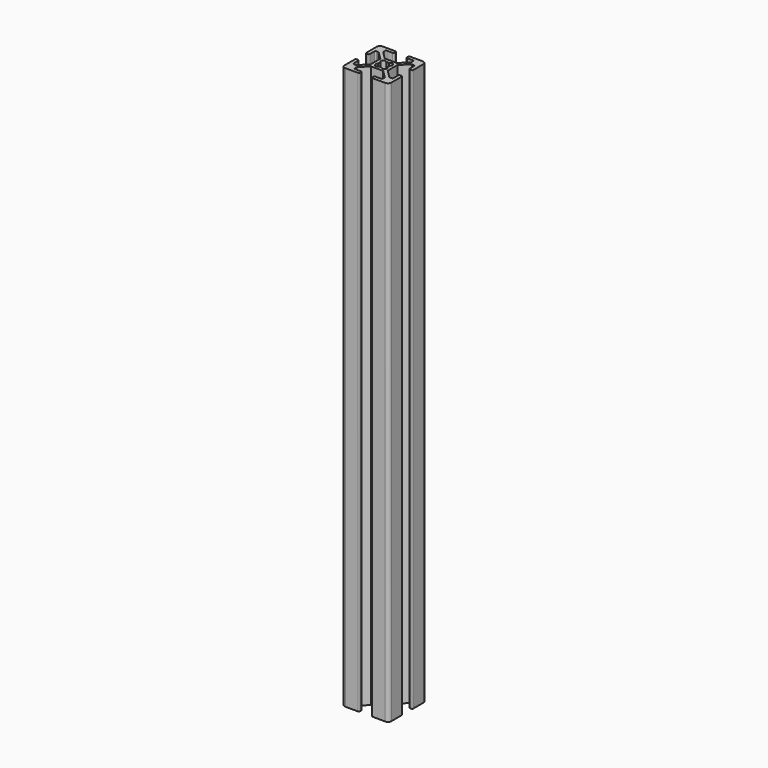
from build123d import *

# Parameters (mm, degrees)
F1_DEPTH = 240
F2_R     = 1.5
F3_R     = 0.5


with BuildPart() as f1:
    # F0 (on Top) → F1 (new body)
    with BuildSketch(Plane.XY):
        Polygon((-2.6, 8.5), (-2.6, 10), (-10, 10), (-10, 2.6), (-8.5, 2.6), (-8.5, 6), (-8.5, 7.4393398282), (-8.5, 8.5), (-7.4393398282, 8.5), (-6, 8.5), align=None)
        Polygon((-8.5, 7.4393398282), (-8.5, 6), (-7.0606601718, 6), align=None)
        Polygon((-6, 7.0606601718), (-6, 8.5), (-7.4393398282, 8.5), align=None)
        Polygon((-6, 7.0606601718), (-7.4393398282, 8.5), (-8.5, 8.5), (-8.5, 7.4393398282), (-7.0606601718, 6), (-3.65, 2.5893398282), (-3.65, 3.65), (-2.5893398282, 3.65), align=None)
        Polygon((10, 2.6), (10, 10), (2.6, 10), (2.6, 8.5), (6, 8.5), (7.4393398282, 8.5), (8.5, 8.5), (8.5, 7.4393398282), (8.5, 6), (8.5, 2.6), align=None)
        Polygon((7.4393398282, 8.5), (6, 8.5), (6, 7.0606601718), align=None)
        Polygon((8.5, 8.5), (7.4393398282, 8.5), (6, 7.0606601718), (2.5893398282, 3.65), (3.65, 3.65), (3.65, 2.5893398282), (7.0606601718, 6), (8.5, 7.4393398282), align=None)
        Polygon((7.0606601718, 6), (8.5, 6), (8.5, 7.4393398282), align=None)
        Polygon((6, -7.0606601718), (6, -8.5), (7.4393398282, -8.5), align=None)
        Polygon((8.5, -8.5), (8.5, -7.4393398282), (7.0606601718, -6), (3.65, -2.5893398282), (3.65, -3.65), (2.5893398282, -3.65), (6, -7.0606601718), (7.4393398282, -8.5), align=None)
        Polygon((8.5, -7.4393398282), (8.5, -6), (7.0606601718, -6), align=None)
        Polygon((10, -10), (10, -2.6), (8.5, -2.6), (8.5, -6), (8.5, -7.4393398282), (8.5, -8.5), (7.4393398282, -8.5), (6, -8.5), (2.6, -8.5), (2.6, -10), align=None)
        Polygon((-8.5, -2.6), (-10, -2.6), (-10, -10), (-2.6, -10), (-2.6, -8.5), (-6, -8.5), (-7.4393398282, -8.5), (-8.5, -8.5), (-8.5, -7.4393398282), (-8.5, -6), align=None)
        Polygon((-7.4393398282, -8.5), (-6, -8.5), (-6, -7.0606601718), align=None)
        Polygon((-7.0606601718, -6), (-8.5, -6), (-8.5, -7.4393398282), align=None)
        Polygon((-7.0606601718, -6), (-8.5, -7.4393398282), (-8.5, -8.5), (-7.4393398282, -8.5), (-6, -7.0606601718), (-2.5893398282, -3.65), (-3.65, -3.65), (-3.65, -2.5893398282), align=None)
        with BuildLine():
            Line((-2.4829614997, -1.4223013279), (-3.65, -2.5893398282))
            Line((-3.65, -2.5893398282), (-3.65, -3.65))
            Line((-3.65, -3.65), (-2.5893398282, -3.65))
            Line((-2.5893398282, -3.65), (-1.4223013279, -2.4829614997))
            ThreePointArc((-1.4223013279, -2.4829614997), (-2.1920310217, -2.1920310217), (-2.4829614997, -1.4223013279))
        make_face()
        with BuildLine():
            Line((-2.5893398282, -3.65), (2.5893398282, -3.65))
            Line((2.5893398282, -3.65), (1.4223013279, -2.4829614997))
            ThreePointArc((1.4223013279, -2.4829614997), (0.9671620585, -2.3404488298), (0.6297938115, -2.0033371546))
            ThreePointArc((0.6297938115, -2.0033371546), (0, -2.1), (-0.6297938115, -2.0033371546))
            ThreePointArc((-0.6297938115, -2.0033371546), (-0.9671620585, -2.3404488298), (-1.4223013279, -2.4829614997))
            Line((-1.4223013279, -2.4829614997), (-2.5893398282, -3.65))
        make_face()
        with BuildLine():
            Line((3.65, -3.65), (3.65, -2.5893398282))
            Line((3.65, -2.5893398282), (2.4829614997, -1.4223013279))
            ThreePointArc((2.4829614997, -1.4223013279), (2.4844334349, -1.4535974088), (2.4849242405, -1.4849242405))
            ThreePointArc((2.4849242405, -1.4849242405), (2.1695325546, -2.2138353848), (1.4223013279, -2.4829614997))
            Line((1.4223013279, -2.4829614997), (2.5893398282, -3.65))
            Line((2.5893398282, -3.65), (3.65, -3.65))
        make_face()
        with BuildLine():
            Line((3.65, -2.5893398282), (3.65, 2.5893398282))
            Line((3.65, 2.5893398282), (2.4829614997, 1.4223013279))
            ThreePointArc((2.4829614997, 1.4223013279), (2.3404488298, 0.9671620585), (2.0033371546, 0.6297938115))
            ThreePointArc((2.0033371546, 0.6297938115), (2.075693622, 0.3185843494), (2.1, 0))
            ThreePointArc((2.1, 0), (2.075693622, -0.3185843494), (2.0033371546, -0.6297938115))
            ThreePointArc((2.0033371546, -0.6297938115), (2.3404488298, -0.9671620585), (2.4829614997, -1.4223013279))
            Line((2.4829614997, -1.4223013279), (3.65, -2.5893398282))
        make_face()
        with BuildLine():
            Line((3.65, 3.65), (2.5893398282, 3.65))
            Line((2.5893398282, 3.65), (1.4223013279, 2.4829614997))
            ThreePointArc((1.4223013279, 2.4829614997), (2.1695325546, 2.2138353848), (2.4849242405, 1.4849242405))
            ThreePointArc((2.4849242405, 1.4849242405), (2.4844334349, 1.4535974088), (2.4829614997, 1.4223013279))
            Line((2.4829614997, 1.4223013279), (3.65, 2.5893398282))
            Line((3.65, 2.5893398282), (3.65, 3.65))
        make_face()
        with BuildLine():
            Line((1.4223013279, 2.4829614997), (2.5893398282, 3.65))
            Line((2.5893398282, 3.65), (-2.5893398282, 3.65))
            Line((-2.5893398282, 3.65), (-1.4223013279, 2.4829614997))
            ThreePointArc((-1.4223013279, 2.4829614997), (-0.9671620585, 2.3404488298), (-0.6297938115, 2.0033371546))
            ThreePointArc((-0.6297938115, 2.0033371546), (0, 2.1), (0.6297938115, 2.0033371546))
            ThreePointArc((0.6297938115, 2.0033371546), (0.9671620585, 2.3404488298), (1.4223013279, 2.4829614997))
        make_face()
        with BuildLine():
            Line((-1.4223013279, 2.4829614997), (-2.5893398282, 3.65))
            Line((-2.5893398282, 3.65), (-3.65, 3.65))
            Line((-3.65, 3.65), (-3.65, 2.5893398282))
            Line((-3.65, 2.5893398282), (-2.4829614997, 1.4223013279))
            ThreePointArc((-2.4829614997, 1.4223013279), (-2.1920310217, 2.1920310217), (-1.4223013279, 2.4829614997))
        make_face()
        with BuildLine():
            Line((-2.4829614997, 1.4223013279), (-3.65, 2.5893398282))
            Line((-3.65, 2.5893398282), (-3.65, -2.5893398282))
            Line((-3.65, -2.5893398282), (-2.4829614997, -1.4223013279))
            ThreePointArc((-2.4829614997, -1.4223013279), (-2.3404488298, -0.9671620585), (-2.0033371546, -0.6297938115))
            ThreePointArc((-2.0033371546, -0.6297938115), (-2.1, 0), (-2.0033371546, 0.6297938115))
            ThreePointArc((-2.0033371546, 0.6297938115), (-2.3404488298, 0.9671620585), (-2.4829614997, 1.4223013279))
        make_face()
    extrude(amount=-F1_DEPTH)

    # F2
    f2_edges = [f1.edges().sort_by_distance(p)[0] for p in [
        (-10, -10, -120),
        (-10, 10, -120),
        (10, -10, -120),
        (10, 10, -120),
    ]]
    fillet(f2_edges, radius=F2_R)

    # F3
    f3_edges = [f1.edges().sort_by_distance(p)[0] for p in [
        (-6, -8.5, -120),
        (-8.5, -6, -120),
        (-8.5, 6, -120),
        (-6, 8.5, -120),
        (6, -8.5, -120),
        (8.5, -6, -120),
        (8.5, 6, -120),
        (6, 8.5, -120),
        (-2.6, 10, -120),
        (-2.6, 8.5, -120),
        (2.6, 10, -120),
        (-8.5, 2.6, -120),
        (-8.5, -2.6, -120),
        (-10, -2.6, -120),
        (-2.6, -8.5, -120),
        (-2.6, -10, -120),
        (2.6, -8.5, -120),
        (8.5, -2.6, -120),
        (10, -2.6, -120),
        (10, 2.6, -120),
        (8.5, 2.6, -120),
        (2.6, 8.5, -120),
        (-10, 2.6, -120),
        (2.6, -10, -120),
    ]]
    fillet(f3_edges, radius=F3_R)


solid = f1.part
